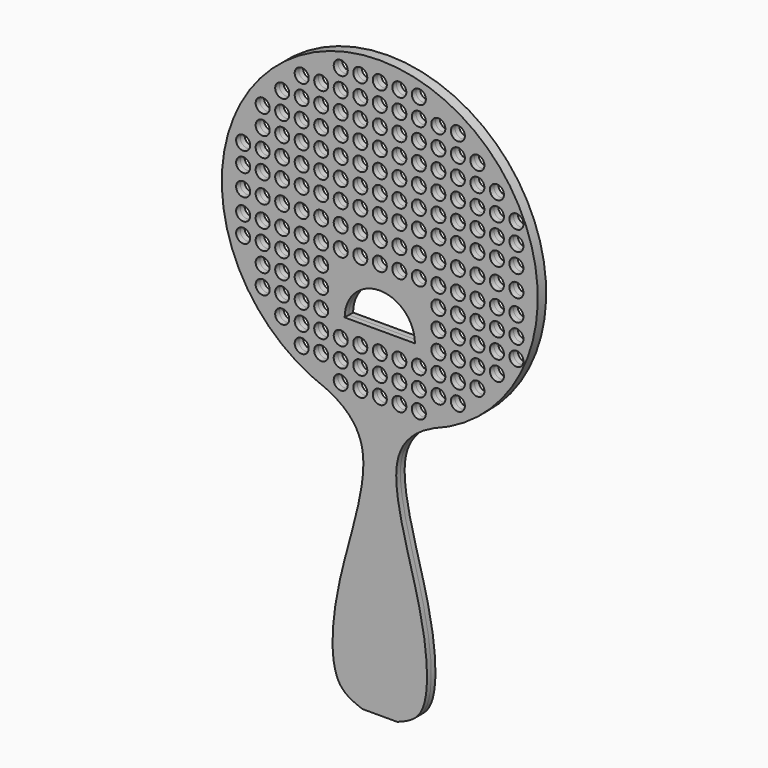
from build123d import *

# Parameters (mm, degrees)
F0_R     = 2
F1_DEPTH = 1.5


with BuildPart() as f1:
    # F0 (on Front) → F1 (new body, symmetric)
    with BuildSketch(Plane.XZ):
        with BuildLine():
            add(Edge.make_bspline(
                [(15.3265801867, 4.6551615518), (10.3182805189, 2.3624508194), (-0.3241210504, -6.7087894011), (13.3895911477, -41.9290900493), (14.5551137105, -68.9593364738), (7.2975909995, -71.4231999626), (5, -72.345003054)],
                knots=[0, 0, 0, 0, 0.2221002155, 0.5625198006, 0.8429961293, 1, 1, 1, 1], degree=3))
            ThreePointArc((15.3265801867, 4.6551615518), (0, 91.9646869542), (-15.3265801867, 4.6551615518))
            add(Edge.make_bspline(
                [(-15.3265801867, 4.6551615518), (-10.3182805189, 2.3624508194), (0.3241210504, -6.7087894011), (-13.3895911477, -41.9290900493), (-14.5551137105, -68.9593364738), (-7.2975909995, -71.4231999626), (-5, -72.345003054)],
                knots=[0, 0, 0, 0, 0.2221002155, 0.5625198006, 0.8429961293, 1, 1, 1, 1], degree=3))
            Line((-5, -72.345003054), (0, -72.345003054))
            Line((0, -72.345003054), (5, -72.345003054))
        make_face()
        with Locations((-11.12, 7.5246869542)):
            Circle(F0_R, mode=Mode.SUBTRACT)
        with Locations((-5.56, 7.5246869542)):
            Circle(F0_R, mode=Mode.SUBTRACT)
        with Locations((0, 7.5246869542)):
            Circle(F0_R, mode=Mode.SUBTRACT)
        with Locations((5.56, 7.5246869542)):
            Circle(F0_R, mode=Mode.SUBTRACT)
        with Locations((11.12, 7.5246869542)):
            Circle(F0_R, mode=Mode.SUBTRACT)
        with Locations((-27.8, 18.644311424)):
            Circle(F0_R, mode=Mode.SUBTRACT)
        with Locations((-33.36, 24.2039358938)):
            Circle(F0_R, mode=Mode.SUBTRACT)
        with Locations((-33.36, 29.7639358938)):
            Circle(F0_R, mode=Mode.SUBTRACT)
        with Locations((-27.8, 24.2039358938)):
            Circle(F0_R, mode=Mode.SUBTRACT)
        with Locations((-27.8, 29.7639358938)):
            Circle(F0_R, mode=Mode.SUBTRACT)
        with Locations((-38.92, 35.3239358938)):
            Circle(F0_R, mode=Mode.SUBTRACT)
        with Locations((-38.92, 40.8835603636)):
            Circle(F0_R, mode=Mode.SUBTRACT)
        with Locations((-38.92, 46.9646869542)):
            Circle(F0_R, mode=Mode.SUBTRACT)
        with Locations((-33.36, 35.3239358938)):
            Circle(F0_R, mode=Mode.SUBTRACT)
        with Locations((-27.8, 35.3239358938)):
            Circle(F0_R, mode=Mode.SUBTRACT)
        with Locations((-33.36, 40.8835603636)):
            Circle(F0_R, mode=Mode.SUBTRACT)
        with Locations((-33.36, 46.9646869542)):
            Circle(F0_R, mode=Mode.SUBTRACT)
        with Locations((-27.8, 40.8835603636)):
            Circle(F0_R, mode=Mode.SUBTRACT)
        with Locations((-27.8, 46.9646869542)):
            Circle(F0_R, mode=Mode.SUBTRACT)
        with Locations((-22.24, 13.084311424)):
            Circle(F0_R, mode=Mode.SUBTRACT)
        with Locations((-22.24, 18.644311424)):
            Circle(F0_R, mode=Mode.SUBTRACT)
        with Locations((-16.68, 13.084311424)):
            Circle(F0_R, mode=Mode.SUBTRACT)
        with Locations((-16.68, 18.644311424)):
            Circle(F0_R, mode=Mode.SUBTRACT)
        with Locations((-22.24, 24.2039358938)):
            Circle(F0_R, mode=Mode.SUBTRACT)
        with Locations((-22.24, 29.7639358938)):
            Circle(F0_R, mode=Mode.SUBTRACT)
        with Locations((-16.68, 24.2039358938)):
            Circle(F0_R, mode=Mode.SUBTRACT)
        with Locations((-16.68, 29.7639358938)):
            Circle(F0_R, mode=Mode.SUBTRACT)
        with Locations((-11.12, 13.084311424)):
            Circle(F0_R, mode=Mode.SUBTRACT)
        with Locations((-11.12, 18.644311424)):
            Circle(F0_R, mode=Mode.SUBTRACT)
        with Locations((-5.56, 13.084311424)):
            Circle(F0_R, mode=Mode.SUBTRACT)
        with Locations((-5.56, 18.644311424)):
            Circle(F0_R, mode=Mode.SUBTRACT)
        with Locations((-22.24, 35.3239358938)):
            Circle(F0_R, mode=Mode.SUBTRACT)
        with Locations((-16.68, 35.3239358938)):
            Circle(F0_R, mode=Mode.SUBTRACT)
        with Locations((-22.24, 40.8835603636)):
            Circle(F0_R, mode=Mode.SUBTRACT)
        with Locations((-22.24, 46.9646869542)):
            Circle(F0_R, mode=Mode.SUBTRACT)
        with Locations((-16.68, 40.8835603636)):
            Circle(F0_R, mode=Mode.SUBTRACT)
        with Locations((-16.68, 46.9646869542)):
            Circle(F0_R, mode=Mode.SUBTRACT)
        with Locations((-11.12, 40.8835603636)):
            Circle(F0_R, mode=Mode.SUBTRACT)
        with Locations((-11.12, 46.9646869542)):
            Circle(F0_R, mode=Mode.SUBTRACT)
        with Locations((-5.56, 40.8835603636)):
            Circle(F0_R, mode=Mode.SUBTRACT)
        with Locations((-5.56, 46.9646869542)):
            Circle(F0_R, mode=Mode.SUBTRACT)
        with Locations((-38.92, 53.0458135448)):
            Circle(F0_R, mode=Mode.SUBTRACT)
        with Locations((-38.92, 58.6054380146)):
            Circle(F0_R, mode=Mode.SUBTRACT)
        with Locations((-33.36, 53.0458135448)):
            Circle(F0_R, mode=Mode.SUBTRACT)
        with Locations((-33.36, 58.6054380146)):
            Circle(F0_R, mode=Mode.SUBTRACT)
        with Locations((-27.8, 53.0458135448)):
            Circle(F0_R, mode=Mode.SUBTRACT)
        with Locations((-27.8, 58.6054380146)):
            Circle(F0_R, mode=Mode.SUBTRACT)
        with Locations((-33.36, 64.1654380146)):
            Circle(F0_R, mode=Mode.SUBTRACT)
        with Locations((-33.36, 69.7254380146)):
            Circle(F0_R, mode=Mode.SUBTRACT)
        with Locations((-27.8, 64.1654380146)):
            Circle(F0_R, mode=Mode.SUBTRACT)
        with Locations((-27.8, 69.7254380146)):
            Circle(F0_R, mode=Mode.SUBTRACT)
        with Locations((-27.8, 75.2850624844)):
            Circle(F0_R, mode=Mode.SUBTRACT)
        with Locations((-22.24, 53.0458135448)):
            Circle(F0_R, mode=Mode.SUBTRACT)
        with Locations((-22.24, 58.6054380146)):
            Circle(F0_R, mode=Mode.SUBTRACT)
        with Locations((-16.68, 53.0458135448)):
            Circle(F0_R, mode=Mode.SUBTRACT)
        with Locations((-16.68, 58.6054380146)):
            Circle(F0_R, mode=Mode.SUBTRACT)
        with Locations((-22.24, 64.1654380146)):
            Circle(F0_R, mode=Mode.SUBTRACT)
        with Locations((-22.24, 69.7254380146)):
            Circle(F0_R, mode=Mode.SUBTRACT)
        with Locations((-16.68, 64.1654380146)):
            Circle(F0_R, mode=Mode.SUBTRACT)
        with Locations((-16.68, 69.7254380146)):
            Circle(F0_R, mode=Mode.SUBTRACT)
        with Locations((-11.12, 53.0458135448)):
            Circle(F0_R, mode=Mode.SUBTRACT)
        with Locations((-11.12, 58.6054380146)):
            Circle(F0_R, mode=Mode.SUBTRACT)
        with Locations((-5.56, 53.0458135448)):
            Circle(F0_R, mode=Mode.SUBTRACT)
        with Locations((-5.56, 58.6054380146)):
            Circle(F0_R, mode=Mode.SUBTRACT)
        with Locations((-11.12, 64.1654380146)):
            Circle(F0_R, mode=Mode.SUBTRACT)
        with Locations((-11.12, 69.7254380146)):
            Circle(F0_R, mode=Mode.SUBTRACT)
        with Locations((-5.56, 64.1654380146)):
            Circle(F0_R, mode=Mode.SUBTRACT)
        with Locations((-5.56, 69.7254380146)):
            Circle(F0_R, mode=Mode.SUBTRACT)
        with Locations((-22.24, 75.2850624844)):
            Circle(F0_R, mode=Mode.SUBTRACT)
        with Locations((-22.24, 80.8450624844)):
            Circle(F0_R, mode=Mode.SUBTRACT)
        with Locations((-16.68, 75.2850624844)):
            Circle(F0_R, mode=Mode.SUBTRACT)
        with Locations((-16.68, 80.8450624844)):
            Circle(F0_R, mode=Mode.SUBTRACT)
        with Locations((-11.12, 75.2850624844)):
            Circle(F0_R, mode=Mode.SUBTRACT)
        with Locations((-11.12, 80.8450624844)):
            Circle(F0_R, mode=Mode.SUBTRACT)
        with Locations((-5.56, 75.2850624844)):
            Circle(F0_R, mode=Mode.SUBTRACT)
        with Locations((-5.56, 80.8450624844)):
            Circle(F0_R, mode=Mode.SUBTRACT)
        with Locations((-11.12, 86.4046869542)):
            Circle(F0_R, mode=Mode.SUBTRACT)
        with Locations((-5.56, 86.4046869542)):
            Circle(F0_R, mode=Mode.SUBTRACT)
        with Locations((0, 13.084311424)):
            Circle(F0_R, mode=Mode.SUBTRACT)
        with Locations((5.56, 13.084311424)):
            Circle(F0_R, mode=Mode.SUBTRACT)
        with Locations((0, 18.644311424)):
            Circle(F0_R, mode=Mode.SUBTRACT)
        with Locations((5.56, 18.644311424)):
            Circle(F0_R, mode=Mode.SUBTRACT)
        with Locations((11.12, 13.084311424)):
            Circle(F0_R, mode=Mode.SUBTRACT)
        with Locations((11.12, 18.644311424)):
            Circle(F0_R, mode=Mode.SUBTRACT)
        with BuildLine():
            ThreePointArc((-10, 24.2039358938), (0, 34.2039358938), (10, 24.2039358938))
            Line((10, 24.2039358938), (-10, 24.2039358938))
        make_face(mode=Mode.SUBTRACT)
        with Locations((16.68, 13.084311424)):
            Circle(F0_R, mode=Mode.SUBTRACT)
        with Locations((16.68, 18.644311424)):
            Circle(F0_R, mode=Mode.SUBTRACT)
        with Locations((22.24, 13.084311424)):
            Circle(F0_R, mode=Mode.SUBTRACT)
        with Locations((22.24, 18.644311424)):
            Circle(F0_R, mode=Mode.SUBTRACT)
        with Locations((16.68, 24.2039358938)):
            Circle(F0_R, mode=Mode.SUBTRACT)
        with Locations((16.68, 29.7639358938)):
            Circle(F0_R, mode=Mode.SUBTRACT)
        with Locations((22.24, 24.2039358938)):
            Circle(F0_R, mode=Mode.SUBTRACT)
        with Locations((22.24, 29.7639358938)):
            Circle(F0_R, mode=Mode.SUBTRACT)
        with Locations((0, 40.8835603636)):
            Circle(F0_R, mode=Mode.SUBTRACT)
        with Locations((5.56, 40.8835603636)):
            Circle(F0_R, mode=Mode.SUBTRACT)
        with Locations((0, 46.9646869542)):
            Circle(F0_R, mode=Mode.SUBTRACT)
        with Locations((5.56, 46.9646869542)):
            Circle(F0_R, mode=Mode.SUBTRACT)
        with Locations((11.12, 40.8835603636)):
            Circle(F0_R, mode=Mode.SUBTRACT)
        with Locations((11.12, 46.9646869542)):
            Circle(F0_R, mode=Mode.SUBTRACT)
        with Locations((16.68, 35.3239358938)):
            Circle(F0_R, mode=Mode.SUBTRACT)
        with Locations((22.24, 35.3239358938)):
            Circle(F0_R, mode=Mode.SUBTRACT)
        with Locations((16.68, 40.8835603636)):
            Circle(F0_R, mode=Mode.SUBTRACT)
        with Locations((16.68, 46.9646869542)):
            Circle(F0_R, mode=Mode.SUBTRACT)
        with Locations((22.24, 40.8835603636)):
            Circle(F0_R, mode=Mode.SUBTRACT)
        with Locations((22.24, 46.9646869542)):
            Circle(F0_R, mode=Mode.SUBTRACT)
        with Locations((27.8, 18.644311424)):
            Circle(F0_R, mode=Mode.SUBTRACT)
        with Locations((27.8, 24.2039358938)):
            Circle(F0_R, mode=Mode.SUBTRACT)
        with Locations((27.8, 29.7639358938)):
            Circle(F0_R, mode=Mode.SUBTRACT)
        with Locations((33.36, 24.2039358938)):
            Circle(F0_R, mode=Mode.SUBTRACT)
        with Locations((33.36, 29.7639358938)):
            Circle(F0_R, mode=Mode.SUBTRACT)
        with Locations((38.92, 29.7639358938)):
            Circle(F0_R, mode=Mode.SUBTRACT)
        with Locations((27.8, 35.3239358938)):
            Circle(F0_R, mode=Mode.SUBTRACT)
        with Locations((33.36, 35.3239358938)):
            Circle(F0_R, mode=Mode.SUBTRACT)
        with Locations((27.8, 40.8835603636)):
            Circle(F0_R, mode=Mode.SUBTRACT)
        with Locations((27.8, 46.9646869542)):
            Circle(F0_R, mode=Mode.SUBTRACT)
        with Locations((33.36, 40.8835603636)):
            Circle(F0_R, mode=Mode.SUBTRACT)
        with Locations((33.36, 46.9646869542)):
            Circle(F0_R, mode=Mode.SUBTRACT)
        with Locations((38.92, 35.3239358938)):
            Circle(F0_R, mode=Mode.SUBTRACT)
        with Locations((38.92, 40.8835603636)):
            Circle(F0_R, mode=Mode.SUBTRACT)
        with Locations((38.92, 46.9646869542)):
            Circle(F0_R, mode=Mode.SUBTRACT)
        with Locations((0, 53.0458135448)):
            Circle(F0_R, mode=Mode.SUBTRACT)
        with Locations((5.56, 53.0458135448)):
            Circle(F0_R, mode=Mode.SUBTRACT)
        with Locations((0, 58.6054380146)):
            Circle(F0_R, mode=Mode.SUBTRACT)
        with Locations((5.56, 58.6054380146)):
            Circle(F0_R, mode=Mode.SUBTRACT)
        with Locations((11.12, 53.0458135448)):
            Circle(F0_R, mode=Mode.SUBTRACT)
        with Locations((11.12, 58.6054380146)):
            Circle(F0_R, mode=Mode.SUBTRACT)
        with Locations((0, 64.1654380146)):
            Circle(F0_R, mode=Mode.SUBTRACT)
        with Locations((5.56, 64.1654380146)):
            Circle(F0_R, mode=Mode.SUBTRACT)
        with Locations((0, 69.7254380146)):
            Circle(F0_R, mode=Mode.SUBTRACT)
        with Locations((5.56, 69.7254380146)):
            Circle(F0_R, mode=Mode.SUBTRACT)
        with Locations((11.12, 64.1654380146)):
            Circle(F0_R, mode=Mode.SUBTRACT)
        with Locations((11.12, 69.7254380146)):
            Circle(F0_R, mode=Mode.SUBTRACT)
        with Locations((16.68, 53.0458135448)):
            Circle(F0_R, mode=Mode.SUBTRACT)
        with Locations((16.68, 58.6054380146)):
            Circle(F0_R, mode=Mode.SUBTRACT)
        with Locations((22.24, 53.0458135448)):
            Circle(F0_R, mode=Mode.SUBTRACT)
        with Locations((22.24, 58.6054380146)):
            Circle(F0_R, mode=Mode.SUBTRACT)
        with Locations((16.68, 64.1654380146)):
            Circle(F0_R, mode=Mode.SUBTRACT)
        with Locations((16.68, 69.7254380146)):
            Circle(F0_R, mode=Mode.SUBTRACT)
        with Locations((22.24, 64.1654380146)):
            Circle(F0_R, mode=Mode.SUBTRACT)
        with Locations((22.24, 69.7254380146)):
            Circle(F0_R, mode=Mode.SUBTRACT)
        with Locations((0, 75.2850624844)):
            Circle(F0_R, mode=Mode.SUBTRACT)
        with Locations((5.56, 75.2850624844)):
            Circle(F0_R, mode=Mode.SUBTRACT)
        with Locations((0, 80.8450624844)):
            Circle(F0_R, mode=Mode.SUBTRACT)
        with Locations((5.56, 80.8450624844)):
            Circle(F0_R, mode=Mode.SUBTRACT)
        with Locations((11.12, 75.2850624844)):
            Circle(F0_R, mode=Mode.SUBTRACT)
        with Locations((11.12, 80.8450624844)):
            Circle(F0_R, mode=Mode.SUBTRACT)
        with Locations((0, 86.4046869542)):
            Circle(F0_R, mode=Mode.SUBTRACT)
        with Locations((5.56, 86.4046869542)):
            Circle(F0_R, mode=Mode.SUBTRACT)
        with Locations((11.12, 86.4046869542)):
            Circle(F0_R, mode=Mode.SUBTRACT)
        with Locations((16.68, 75.2850624844)):
            Circle(F0_R, mode=Mode.SUBTRACT)
        with Locations((16.68, 80.8450624844)):
            Circle(F0_R, mode=Mode.SUBTRACT)
        with Locations((22.24, 75.2850624844)):
            Circle(F0_R, mode=Mode.SUBTRACT)
        with Locations((22.24, 80.8450624844)):
            Circle(F0_R, mode=Mode.SUBTRACT)
        with Locations((27.8, 53.0458135448)):
            Circle(F0_R, mode=Mode.SUBTRACT)
        with Locations((27.8, 58.6054380146)):
            Circle(F0_R, mode=Mode.SUBTRACT)
        with Locations((33.36, 53.0458135448)):
            Circle(F0_R, mode=Mode.SUBTRACT)
        with Locations((33.36, 58.6054380146)):
            Circle(F0_R, mode=Mode.SUBTRACT)
        with Locations((27.8, 64.1654380146)):
            Circle(F0_R, mode=Mode.SUBTRACT)
        with Locations((27.8, 69.7254380146)):
            Circle(F0_R, mode=Mode.SUBTRACT)
        with Locations((33.36, 64.1654380146)):
            Circle(F0_R, mode=Mode.SUBTRACT)
        with Locations((33.36, 69.7254380146)):
            Circle(F0_R, mode=Mode.SUBTRACT)
        with Locations((38.92, 53.0458135448)):
            Circle(F0_R, mode=Mode.SUBTRACT)
        with Locations((38.92, 58.6054380146)):
            Circle(F0_R, mode=Mode.SUBTRACT)
        with Locations((38.92, 64.1654380146)):
            Circle(F0_R, mode=Mode.SUBTRACT)
        with Locations((27.8, 75.2850624844)):
            Circle(F0_R, mode=Mode.SUBTRACT)
    extrude(amount=F1_DEPTH, both=True)


solid = f1.part
